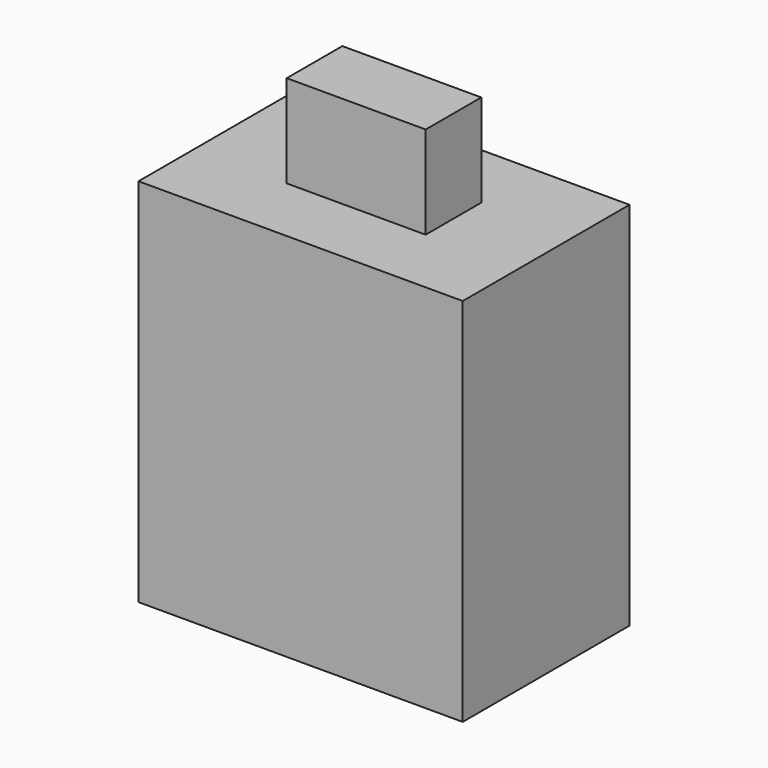
from build123d import *

# Parameters (mm, degrees)
BOX003_W     = 3
BOX003_H     = 1.5
BOX003_DEPTH = 2
BOX001_W     = 6
BOX001_H     = 3.5
BOX001_DEPTH = 4.5
BOX002_W     = 7
BOX002_H     = 4.5
BOX002_DEPTH = 8


with BuildPart() as cube002:
    # Box003 → Box003 (new body)
    with BuildSketch(Plane(origin=(12.5, 13, 10), x_dir=(1, 0, 0), z_dir=(0, 0, 1))):
        with Locations((1.5, 0.75)):
            Rectangle(BOX003_W, BOX003_H)
    extrude(amount=BOX003_DEPTH)


with BuildPart() as cube:
    # Box001 → Box001 (new body)
    with BuildSketch(Plane(origin=(11, 12, 1.6), x_dir=(1, 0, 0), z_dir=(0, 0, 1))):
        with Locations((3, 1.75)):
            Rectangle(BOX001_W, BOX001_H)
    extrude(amount=BOX001_DEPTH)


with BuildPart() as obj1:
    # Box002 → Box002 (new body)
    with BuildSketch(Plane(origin=(10.5, 11.5, 2), x_dir=(1, 0, 0), z_dir=(0, 0, 1))):
        with Locations((3.5, 2.25)):
            Rectangle(BOX002_W, BOX002_H)
    extrude(amount=BOX002_DEPTH)

    # Cut: cut Cube
    add(cube.part, mode=Mode.SUBTRACT)

    # Fusion: union Cube002
    add(cube002.part)


solid = obj1.part
